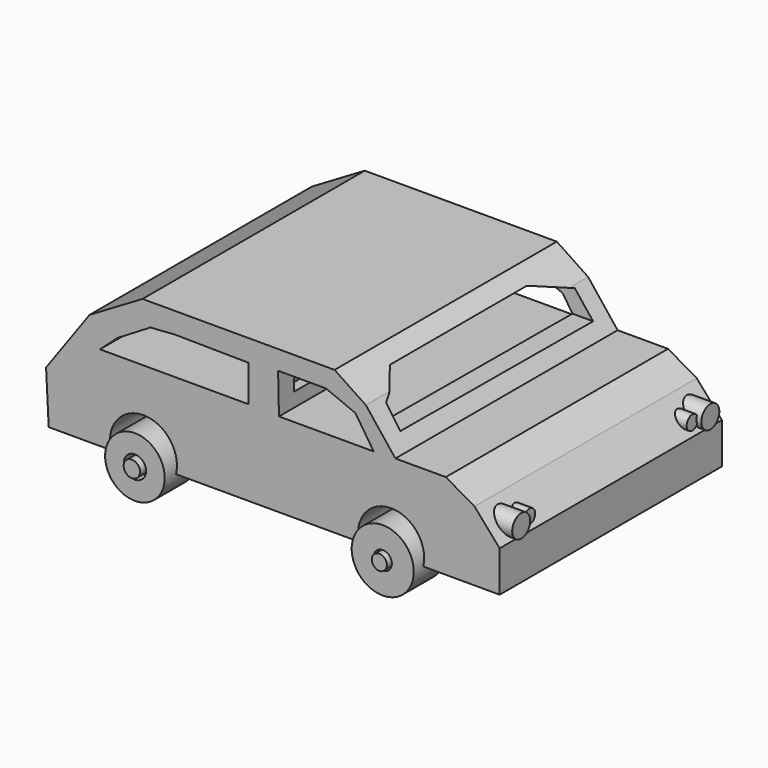
from build123d import *

# Parameters (mm, degrees)
F1_DEPTH  = 31.72759
F2_DEPTH  = 30.88454
F4_DEPTH  = 105.29166
F5_DEPTH  = 57.13206
F7_DEPTH  = 126.57516
F8_R      = 2.540562
F9_DEPTH  = 52.8818
F10_R     = 1.597776
F11_DEPTH = 51.78806
F12_R     = 7.167341
F12_R_2   = 7.505973
F13_DEPTH = 17.62756
F14_DEPTH = 18.26537
F15_R     = 1.701538
F15_R_2   = 1.842812
F16_DEPTH = 35.1313
F17_DEPTH = 36.92113
F20_R     = 6.72259
F20_R_2   = 2.511767
F20_R_3   = 6.996272
F20_R_4   = 2.054112
F21_DEPTH = 8.78482
F22_R     = 7.010266
F22_R_2   = 2.049618
F22_R_3   = 6.767141
F22_R_4   = 2.480427
F23_DEPTH = 9.01715


with BuildPart() as f1:
    # F0 (on Front) → F1 (new body)
    with BuildSketch(Plane.XZ):
        with BuildLine():
            Line((-40.347762, 13.612472), (-50.140906, 0))
            Line((-50.140906, 0), (-49.55332, -11.653843))
            Line((-49.55332, -11.653843), (-35.556299, -11.653843))
            ThreePointArc((-35.556299, -11.653843), (-28.20426, -2.330667), (-20.852222, -11.653843))
            Line((-20.852222, -11.653843), (20.324883, -11.653843))
            ThreePointArc((20.324883, -11.653843), (27.717136, -2.629378), (34.863597, -11.849707))
            Line((34.863597, -11.849707), (52.099533, -11.849707))
            Line((52.099533, -11.849707), (52.099533, -2.644149))
            Line((52.099533, -2.644149), (46.419512, 3.819327))
            Line((46.419512, 3.819327), (39.956037, 7.540722))
            Line((39.956037, 7.540722), (28.595982, 7.540722))
            Line((28.595982, 7.540722), (21.936648, 15.962828))
            Line((21.936648, 15.962828), (14.885582, 20.663537))
            Line((14.885582, 20.663537), (-28.400123, 20.663537))
            Line((-28.400123, 20.663537), (-40.347762, 13.612472))
        make_face()
    extrude(amount=F1_DEPTH)

    # F0 (on Front) → F2 (join)
    with BuildSketch(Plane.XZ):
        with BuildLine():
            Line((-40.347762, 13.612472), (-50.140906, 0))
            Line((-50.140906, 0), (-49.55332, -11.653843))
            Line((-49.55332, -11.653843), (-35.556299, -11.653843))
            ThreePointArc((-35.556299, -11.653843), (-28.20426, -2.330667), (-20.852222, -11.653843))
            Line((-20.852222, -11.653843), (20.324883, -11.653843))
            ThreePointArc((20.324883, -11.653843), (27.717136, -2.629378), (34.863597, -11.849707))
            Line((34.863597, -11.849707), (52.099533, -11.849707))
            Line((52.099533, -11.849707), (52.099533, -2.644149))
            Line((52.099533, -2.644149), (46.419512, 3.819327))
            Line((46.419512, 3.819327), (39.956037, 7.540722))
            Line((39.956037, 7.540722), (28.595982, 7.540722))
            Line((28.595982, 7.540722), (21.936648, 15.962828))
            Line((21.936648, 15.962828), (14.885582, 20.663537))
            Line((14.885582, 20.663537), (-28.400123, 20.663537))
            Line((-28.400123, 20.663537), (-40.347762, 13.612472))
        make_face()
    extrude(amount=-F2_DEPTH)

    # F3 (on Front) → F4 (cut)
    with BuildSketch(Plane.XZ):
        Polygon((12.926953, 16.354553), (2.154493, 16.354553), (2.350356, 7.344859), (23.699414, 7.344859), (19.586291, 13.612472), align=None)
        Polygon((-4.504845, 7.540722), (-4.504845, 15.766963), (-21.153195, 15.962828), (-26.637357, 15.571102), (-34.080148, 11.066255), (-37.997406, 7.540722), (-21.153195, 7.540722), align=None)
    extrude(amount=F4_DEPTH, mode=Mode.SUBTRACT)

    # F3 (on Front) → F5 (cut)
    with BuildSketch(Plane.XZ):
        Polygon((12.926953, 16.354553), (2.154493, 16.354553), (2.350356, 7.344859), (23.699414, 7.344859), (19.586291, 13.612472), align=None)
        Polygon((-4.504845, 7.540722), (-4.504845, 15.766963), (-21.153195, 15.962828), (-26.637357, 15.571102), (-34.080148, 11.066255), (-37.997406, 7.540722), (-21.153195, 7.540722), align=None)
    extrude(amount=-F5_DEPTH, mode=Mode.SUBTRACT)

    # F6 (on Right) → F7 (cut)
    with BuildSketch(Plane.YZ):
        Polygon((17.999778, 18.296476), (-20.614888, 18.296476), (-27.150005, 14.836709), (-27.420808, 10.478665), (26.70297, 10.30179), (26.70297, 15.591273), align=None)
    extrude(amount=F7_DEPTH, mode=Mode.SUBTRACT)

    # F8 (on Right) → F9 (join)
    with BuildSketch(Plane.YZ):
        with Locations((-26.637357, 0)):
            Circle(F8_R)
        with Locations((26.637357, 0)):
            Circle(F8_R)
    extrude(amount=F9_DEPTH)

    # F10 (on Right) → F11 (join)
    with BuildSketch(Plane.YZ):
        with Locations((-22.944771, 0)):
            Circle(F10_R)
        with Locations((22.944771, 0)):
            Circle(F10_R)
    extrude(amount=F11_DEPTH)

    # F12 (on Front) → F13 (join)
    with BuildSketch(Plane.XZ):
        with Locations((27.691966, -9.988888)):
            Circle(F12_R)
        with Locations((-28.087564, -9.791087)):
            Circle(F12_R_2)
    extrude(amount=F13_DEPTH)


with BuildPart() as f14:
    # F12 (on Front) → F14 (new body)
    with BuildSketch(Plane.XZ):
        with Locations((27.691966, -9.988888)):
            Circle(F12_R)
        with Locations((-28.087564, -9.791087)):
            Circle(F12_R_2)
    extrude(amount=-F14_DEPTH)


with BuildPart() as f16:
    # F15 (on Front) → F16 (new body)
    with BuildSketch(Plane.XZ):
        with Locations((27.691966, -11.966885)):
            Circle(F15_R)
        with Locations((-28.087564, -11.571286)):
            Circle(F15_R_2)
    extrude(amount=F16_DEPTH)


with BuildPart() as f17:
    # F15 (on Front) → F17 (new body)
    with BuildSketch(Plane.XZ):
        with Locations((27.691966, -11.966885)):
            Circle(F15_R)
        with Locations((-28.087564, -11.571286)):
            Circle(F15_R_2)
    extrude(amount=-F17_DEPTH)


with BuildPart() as f21:
    # F20 (on offset) → F21 (new body)
    with BuildSketch(Plane.XZ.offset(25.4)):
        with Locations((-28.153751, -11.607743)):
            Circle(F20_R)
        with Locations((-28.153751, -11.607743)):
            Circle(F20_R_2, mode=Mode.SUBTRACT)
        with Locations((27.703669, -11.95054)):
            Circle(F20_R_3)
        with Locations((27.703669, -11.95054)):
            Circle(F20_R_4, mode=Mode.SUBTRACT)
    extrude(amount=F21_DEPTH)


with BuildPart() as f23:
    # F22 (on offset) → F23 (new body)
    with BuildSketch(Plane.XZ.offset(-25.4)):
        with Locations((27.732449, -11.946245)):
            Circle(F22_R)
        with Locations((27.732449, -11.946245)):
            Circle(F22_R_2, mode=Mode.SUBTRACT)
        with Locations((-28.176781, -11.625309)):
            Circle(F22_R_3)
        with Locations((-28.176781, -11.625309)):
            Circle(F22_R_4, mode=Mode.SUBTRACT)
    extrude(amount=-F23_DEPTH)


solid = Compound([f1.part, f14.part, f16.part, f17.part, f21.part, f23.part])
